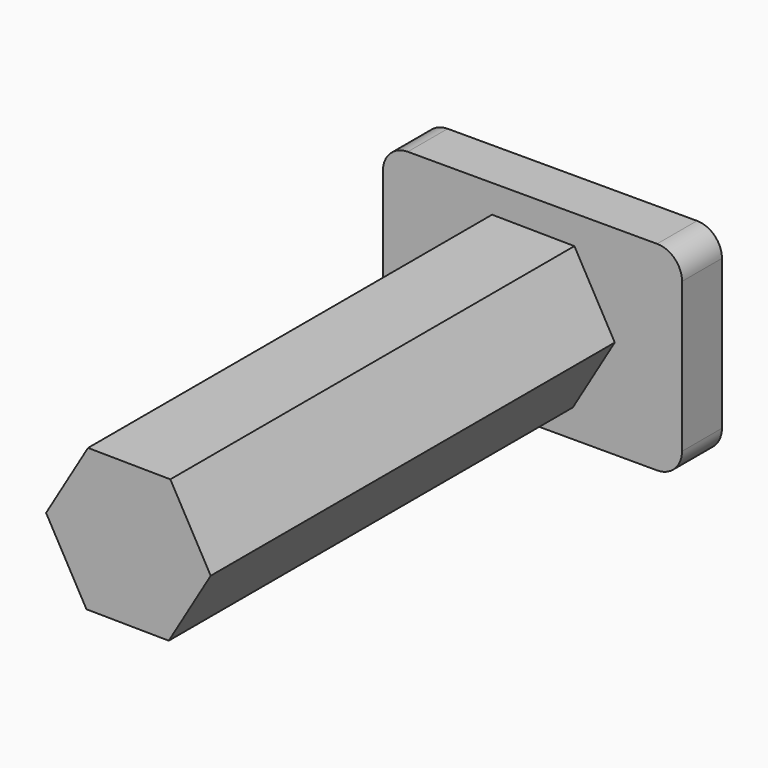
from build123d import *

# Parameters (mm, degrees)
F1_DEPTH = 25.4
F2_DEPTH = 282.702


with BuildPart() as f1:
    # F0 (on Front) → F1 (new body)
    with BuildSketch(Plane.XZ):
        with BuildLine():
            ThreePointArc((-96.115729, -38.1), (-92.395985, -47.080256), (-83.415729, -50.8))
            Line((-83.415729, -50.8), (43.584271, -50.8))
            ThreePointArc((43.584271, -50.8), (52.564527, -47.080256), (56.284271, -38.1))
            Line((56.284271, -38.1), (56.284271, 38.1))
            ThreePointArc((56.284271, 38.1), (52.564527, 47.080256), (43.584271, 50.8))
            Line((43.584271, 50.8), (-83.415729, 50.8))
            ThreePointArc((-83.415729, 50.8), (-92.395985, 47.080256), (-96.115729, 38.1))
            Line((-96.115729, 38.1), (-96.115729, -38.1))
        make_face()
        Polygon((-41.281041, -36.083353), (-61.847485, 0.461227), (-40.482173, 36.544579), (1.449583, 36.083353), (22.016027, -0.461227), (0.650715, -36.544579), align=None, mode=Mode.SUBTRACT)
    extrude(amount=F1_DEPTH)

    # F0 (on Front) → F2 (join)
    with BuildSketch(Plane.XZ):
        Polygon((-40.482173, 36.544579), (-61.847485, 0.461227), (-41.281041, -36.083353), (0.650715, -36.544579), (22.016027, -0.461227), (1.449583, 36.083353), align=None)
    extrude(amount=F2_DEPTH)


solid = f1.part
